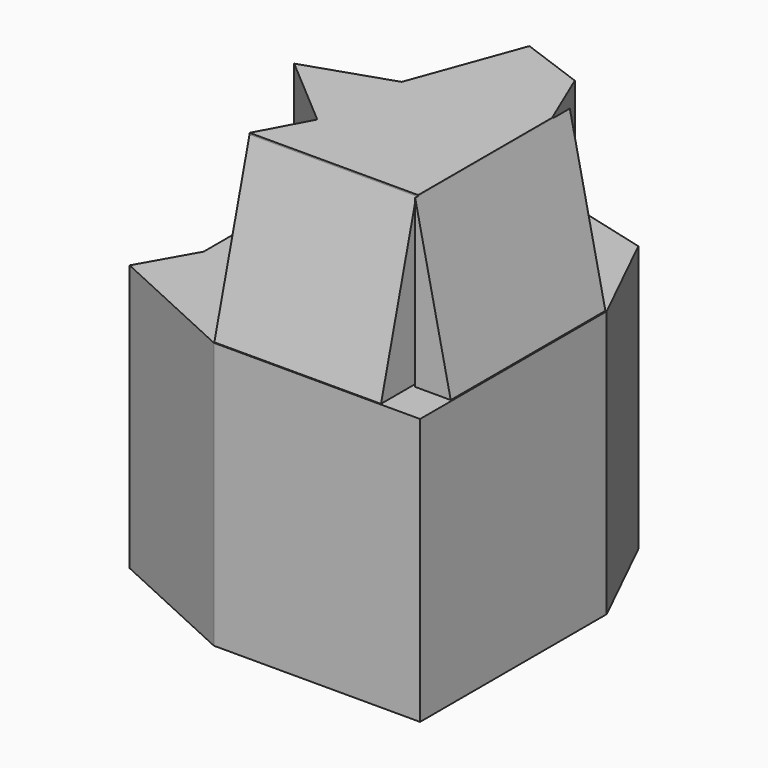
from build123d import *

# Parameters (mm, degrees)
F1_DEPTH = 20
F3_DEPTH = 12.5
F5_DEPTH = 12.5
F7_DEPTH = 14.5


with BuildPart() as f1:
    # F0 (on Top) → F1 (new body)
    with BuildSketch(Plane.XY):
        Polygon((4.2091628588, 0), (0, 0), (-7.6893941317, -3.3585857784), (-7.6893941317, -8.8383838224), (-9.9873745708, -12.9040412375), (0, -17.5), (15.4671736725, -17.5), (15.4671736725, 0), (11.9667165624, 0), (12.6388881837, -1.5909090669), (12.6388881837, -14.1414147504), (0, -14.1414147504), (2.0384542777, -10.350604583), (-3.4469682786, -5.6565662175), (2.9166682534, -3.5353536876), align=None)
        Polygon((5.0378784032, 9.3686872854), (0, 0), (4.2091628588, 0), (5.9217182135, 4.6843436427), (10.7303036149, 2.92636658), (11.9667165624, 0), (15.4671736725, 0), (11.7550499601, 7.6010103094), align=None)
    extrude(amount=F1_DEPTH)

    # F6 (on Front) → F7 (join)
    with BuildSketch(Plane.XZ):
        Polygon((12.6992398873, 19.9890304357), (15.3688639402, 19.9890304357), (12.6992398873, 32.4851460755), align=None)
    extrude(amount=F7_DEPTH)


with BuildPart() as f3:
    # F2 (on face) → F3 (new body)
    with BuildSketch(Plane.XY.offset(20)):
        Polygon((2.9166682534, -3.5353536876), (-3.4469682786, -5.6565662175), (2.0384542777, -10.350604583), (0, -14.1414147504), (12.6388881837, -14.1414147504), (12.6388881837, -1.5909090669), (10.7303036149, 2.92636658), (5.9217182135, 4.6843436427), align=None)
    extrude(amount=F3_DEPTH)


with BuildPart() as f5:
    # F4 (on Right) → F5 (new body)
    with BuildSketch(Plane.YZ):
        Polygon((-14.153862372, 20.0179181993), (-14.153862372, 32.3935039341), (-17.4522325397, 20.0179181993), align=None)
    extrude(amount=F5_DEPTH)


solid = Compound([f1.part, f3.part, f5.part])
